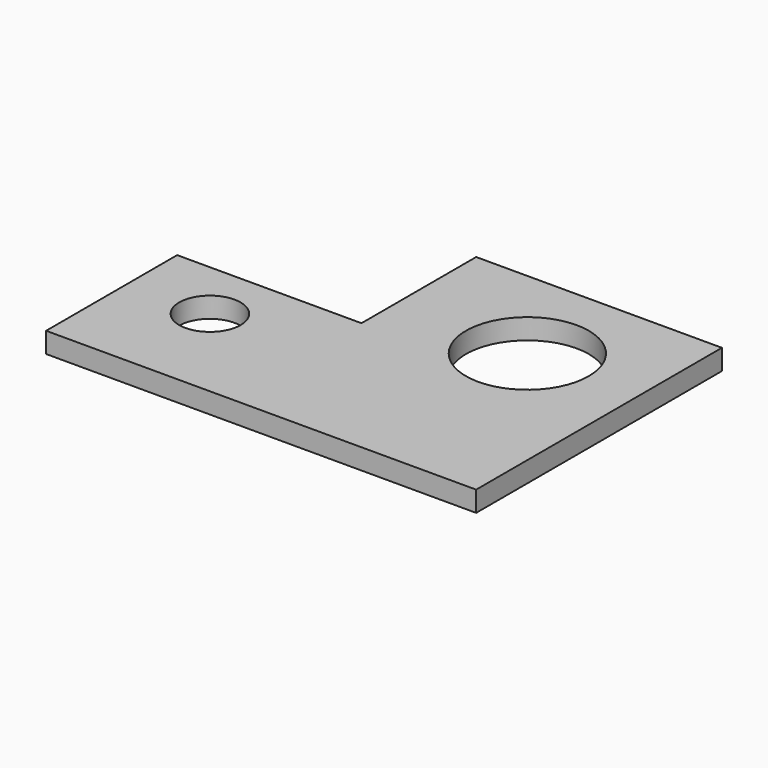
from build123d import *

# Parameters (mm, degrees)
F0_R     = 15
F0_R_2   = 30
F1_DEPTH = 10


with BuildPart() as f1:
    # F0 (on Top) → F1 (new body)
    with BuildSketch(Plane.XY):
        Polygon((-210, 0), (0, 0), (0, 150), (-120, 150), (-120, 80), (-210, 80), align=None)
        with Locations((-170, 50)):
            Circle(F0_R, mode=Mode.SUBTRACT)
        with Locations((-55, 100)):
            Circle(F0_R_2, mode=Mode.SUBTRACT)
    extrude(amount=F1_DEPTH)


solid = f1.part
